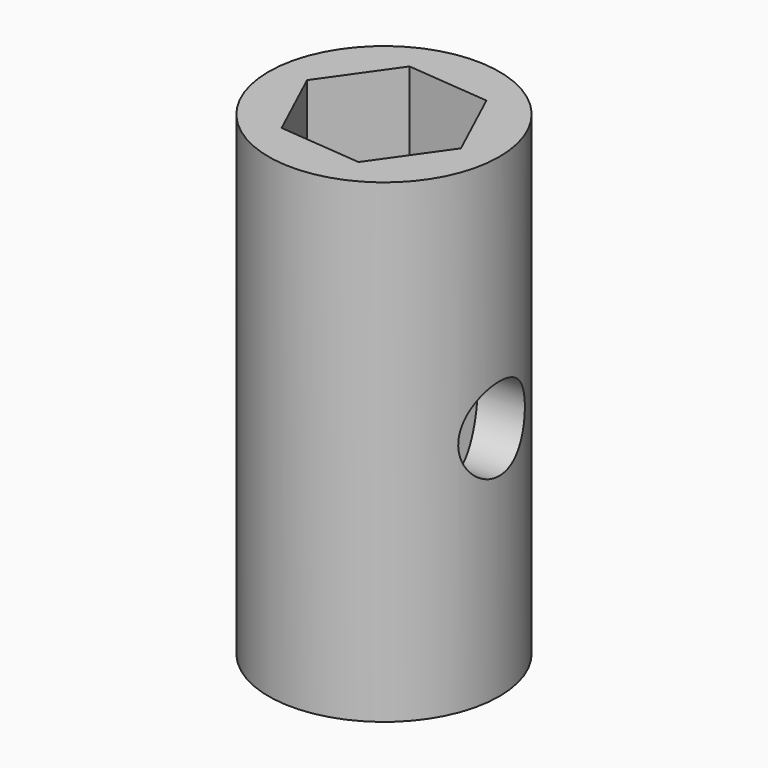
from build123d import *

# Parameters (mm, degrees)
F0_R          = 36.999362
F1_DEPTH      = 152.4
F2_R          = 13.360744
F3_DEPTH      = 228.6
F3_DEPTH_BACK = 228.6


with BuildPart() as f1:
    # F0 (on Top) → F1 (new body)
    with BuildSketch(Plane.XY):
        Circle(F0_R)
        Polygon((11.219716, -24.246573), (-15.38829, -21.839846), (-26.608006, 2.406727), (-11.219716, 24.246573), (15.38829, 21.839846), (26.608006, -2.406727), align=None, mode=Mode.SUBTRACT)
    extrude(amount=F1_DEPTH)

    # F2 (on Right) → F3 (cut, two sides)
    with BuildSketch(Plane.YZ) as f3_sk:
        with Locations((0, 75.625911)):
            Circle(F2_R)
    extrude(amount=F3_DEPTH, mode=Mode.SUBTRACT)
    extrude(f3_sk.sketch, amount=-F3_DEPTH_BACK, mode=Mode.SUBTRACT)


solid = f1.part
